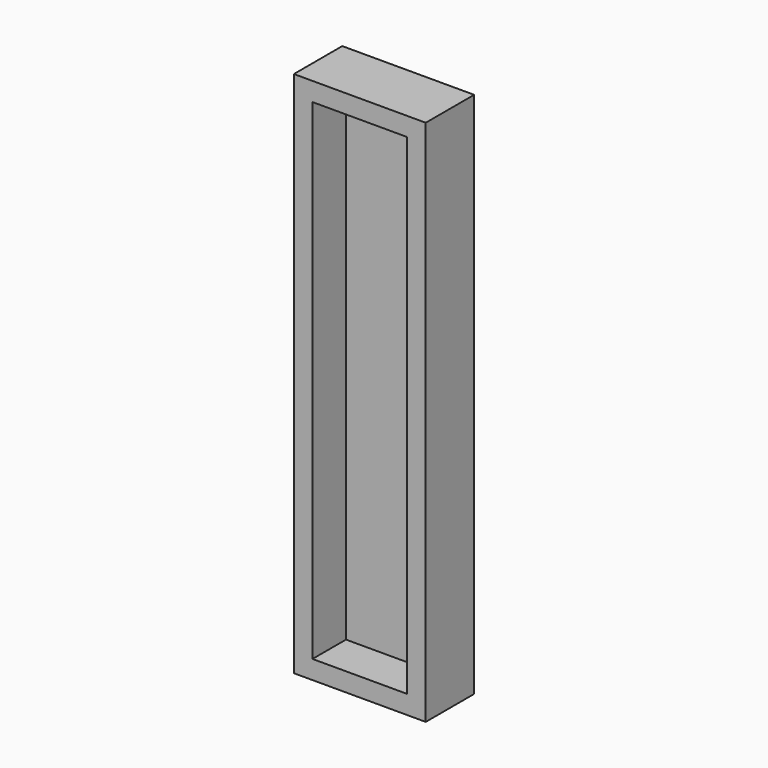
from build123d import *

# Parameters (mm, degrees)
F0_W     = 45.5373488367
F0_H     = 44.1119857132
F1_DEPTH = 195
F2_DEPTH = 1700
F3_DEPTH = 425
F4_T     = -60


with BuildPart() as f1:
    # F0 (on Front) → F1 (new body)
    with BuildSketch(Plane.XZ):
        with Locations((22.7686744183, 22.0559928566)):
            Rectangle(F0_W, F0_H)
    extrude(amount=F1_DEPTH)

    # F2 (add): a face of the model
    f2_faces = [f1.faces().sort_by_distance(p)[0] for p in [
        (22.7686744183, -97.5, 0),
    ]]
    extrude(f2_faces, amount=-F2_DEPTH)

    # F3 (add): a face of the model
    f3_faces = [f1.faces().sort_by_distance(p)[0] for p in [
        (0, -97.5, 850),
    ]]
    extrude(f3_faces, amount=-F3_DEPTH)

    # F4
    f4_openings = [f1.faces().sort_by_distance(p)[0] for p in [
        (212.5, -195, 850),
    ]]
    offset(amount=F4_T, openings=f4_openings)


solid = f1.part
